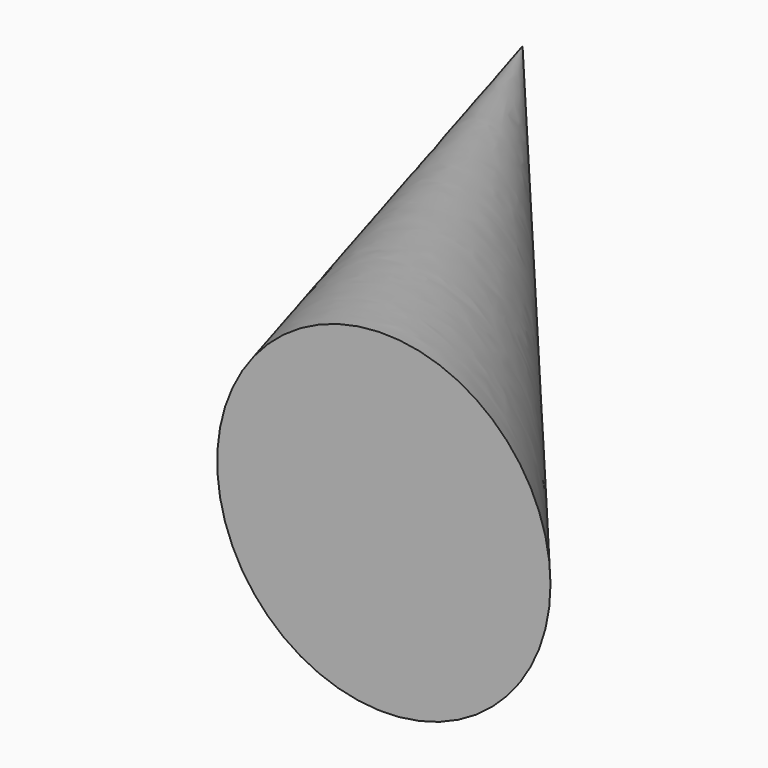
from build123d import *

# Parameters (mm, degrees)
F1_R = 5.34246


with BuildPart() as f4:
    # F1 (on offset) → F4 section 0
    with BuildSketch(Plane.XZ.offset(47.752), mode=Mode.PRIVATE) as f4_s0:
        with Locations((13.435125, 0)):
            Circle(F1_R)
    loft([f4_s0.sketch, Vertex(0, -25.4, 0)])


solid = f4.part
